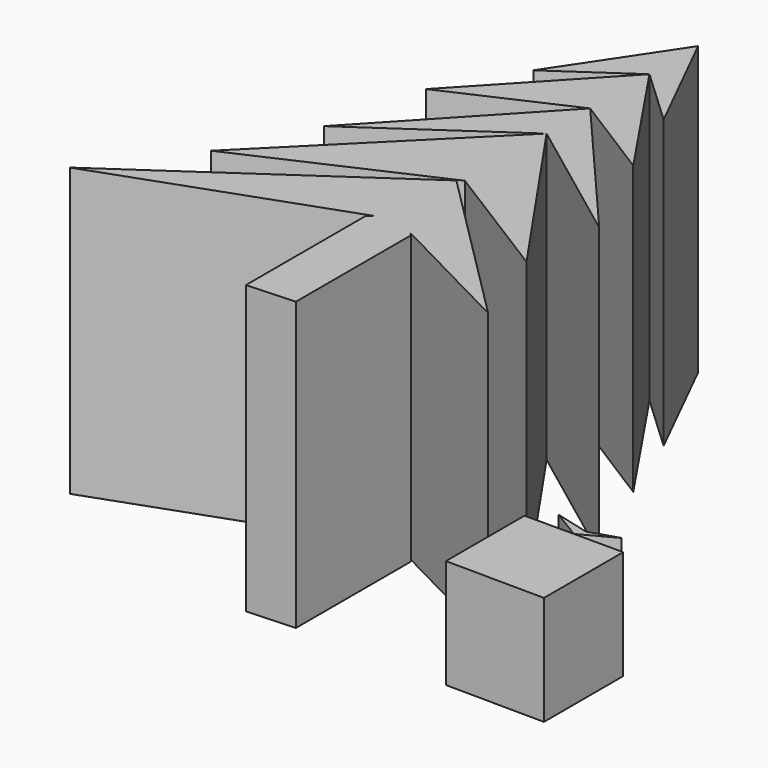
from build123d import *

# Parameters (mm, degrees)
F1_DEPTH = 25.4
F3_DEPTH = 25.4
F5_DEPTH = 9.652


with BuildPart() as f1:
    # F0 (on Top) → F1 (new body)
    with BuildSketch(Plane.XY):
        Polygon((0, -16.065674), (-12.685884, -29.611059), (0, -20.884374), (11.613273, -29.583946), align=None)
        Polygon((-6.625512, -14.070917), (0, -9.513194), (4.996786, -14.192916), (0, -4.130037), align=None)
        Polygon((-10.64964, -20.884374), (0, -16.065674), (7.662494, -20.884374), (0, -9.513194), align=None)
        Polygon((13.627505, -44.375485), (-0.487541, -30.249636), (-22.532491, -45.41447), (0, -37.361499), align=None)
        Polygon((10.893873, -36.720677), (0, -20.884374), (-16.489735, -37.361499), (0, -29.914254), align=None)
    extrude(amount=F1_DEPTH)

    # F2 (on Top) → F3 (join)
    with BuildSketch(Plane.XY):
        Polygon((2.187551, -51.334936), (2.187551, -38.595065), (0, -36.750682), (-2.060871, -38.300365), (-2.060871, -51.549621), align=None)
    extrude(amount=F3_DEPTH)


with BuildPart() as f5:
    # F4 (on Top) → F5 (new body)
    with BuildSketch(Plane.XY):
        Polygon((17.348332, -41.244637), (19.970685, -42.83319), (22.930533, -41.244637), (20.393871, -42.038914), align=None)
        Polygon((15.607399, -42.83319), (15.607399, -51.522885), (24.333971, -51.598419), (24.333971, -42.83319), (19.970685, -42.83319), align=None)
    extrude(amount=F5_DEPTH)


solid = Compound([f1.part, f5.part])
